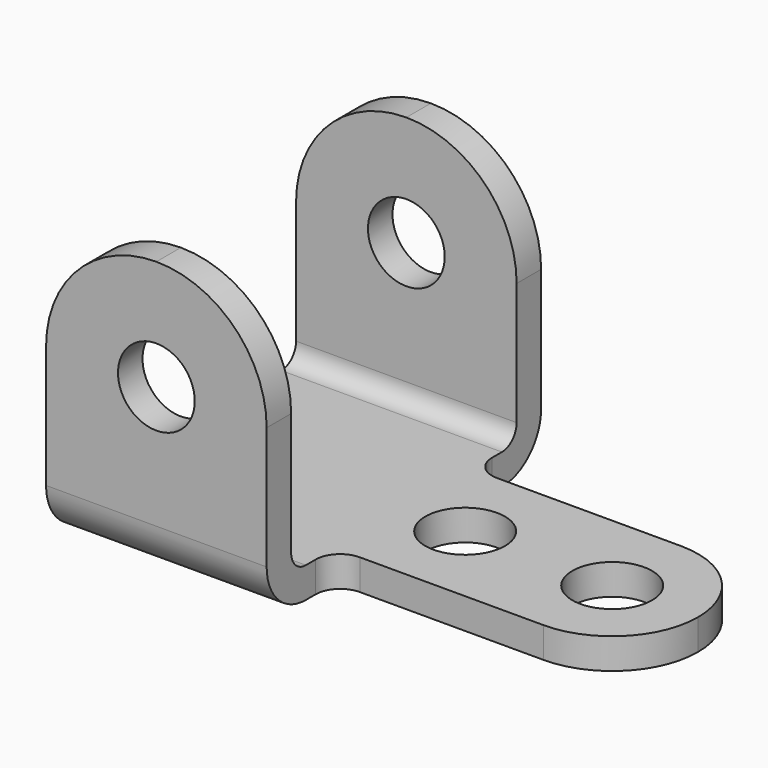
from build123d import *

# Parameters (mm, degrees)
F1_DEPTH = 57.15
F2_R     = 9.94537
F3_DEPTH = 88.9
F5_DEPTH = 88.9
F6_W     = 76.2
F6_H     = 44.45
F7_DEPTH = 7.9375
F8_R     = 10.3251
F9_DEPTH = 25.4
F10_R    = 6.35


with BuildPart() as f1:
    # F0 (on Right) → F1 (new body)
    with BuildSketch(Plane.YZ):
        with BuildLine():
            ThreePointArc((0, 12.7), (3.7197438789, 3.7197438789), (12.7, 0))
            Line((12.7, 0), (76.2, 0))
            ThreePointArc((76.2, 0), (85.1802561211, 3.7197438789), (88.9, 12.7))
            Line((88.9, 12.7), (88.9, 73.025))
            Line((88.9, 73.025), (80.9625, 73.025))
            Line((80.9625, 73.025), (80.9625, 12.7))
            ThreePointArc((80.9625, 12.7), (79.5675960454, 9.3324039546), (76.2, 7.9375))
            Line((76.2, 7.9375), (12.7, 7.9375))
            ThreePointArc((12.7, 7.9375), (9.3324039546, 9.3324039546), (7.9375, 12.7))
            Line((7.9375, 12.7), (7.9375, 73.025))
            Line((7.9375, 73.025), (0, 73.025))
            Line((0, 73.025), (0, 12.7))
        make_face()
    extrude(amount=F1_DEPTH)

    # F2 (on face) → F3 (cut)
    with BuildSketch(Plane.XZ):
        with Locations((28.575, 44.45)):
            Circle(F2_R)
    extrude(amount=-F3_DEPTH, mode=Mode.SUBTRACT)

    # F4 (on face) → F5 (cut)
    with BuildSketch(Plane.XZ):
        with BuildLine():
            ThreePointArc((0, 44.45), (8.3694237276, 64.6555762724), (28.575, 73.025))
            Line((28.575, 73.025), (0, 73.025))
            Line((0, 73.025), (0, 44.45))
        make_face()
        with BuildLine():
            ThreePointArc((28.575, 73.025), (48.7805762724, 64.6555762724), (57.15, 44.45))
            Line((57.15, 44.45), (57.15, 73.025))
            Line((57.15, 73.025), (28.575, 73.025))
        make_face()
    extrude(amount=-F5_DEPTH, mode=Mode.SUBTRACT)

    # F6 (on face) → F7 (join)
    with BuildSketch(Plane.XY.offset(7.9375)):
        with Locations((95.25, 44.45)):
            Rectangle(F6_W, F6_H)
    extrude(amount=-F7_DEPTH)

    # F8 (on face) → F9 (cut)
    with BuildSketch(Plane.XY.offset(7.9375)):
        with Locations((73.025, 44.45)):
            Circle(F8_R)
        with Locations((111.125, 44.45)):
            Circle(F8_R)
        with BuildLine():
            ThreePointArc((111.125, 66.675), (126.8404482119, 60.1654482119), (133.35, 44.45))
            Line((133.35, 44.45), (133.35, 66.675))
            Line((133.35, 66.675), (111.125, 66.675))
        make_face()
        with BuildLine():
            Line((133.35, 22.225), (133.35, 44.45))
            ThreePointArc((133.35, 44.45), (126.8404482119, 28.7345517881), (111.125, 22.225))
            Line((111.125, 22.225), (133.35, 22.225))
        make_face()
    extrude(amount=-F9_DEPTH, mode=Mode.SUBTRACT)

    # F10
    f10_edges = [f1.edges().sort_by_distance(p)[0] for p in [
        (57.15, 22.225, 3.96875),
        (57.15, 66.675, 3.96875),
    ]]
    fillet(f10_edges, radius=F10_R)


solid = f1.part
